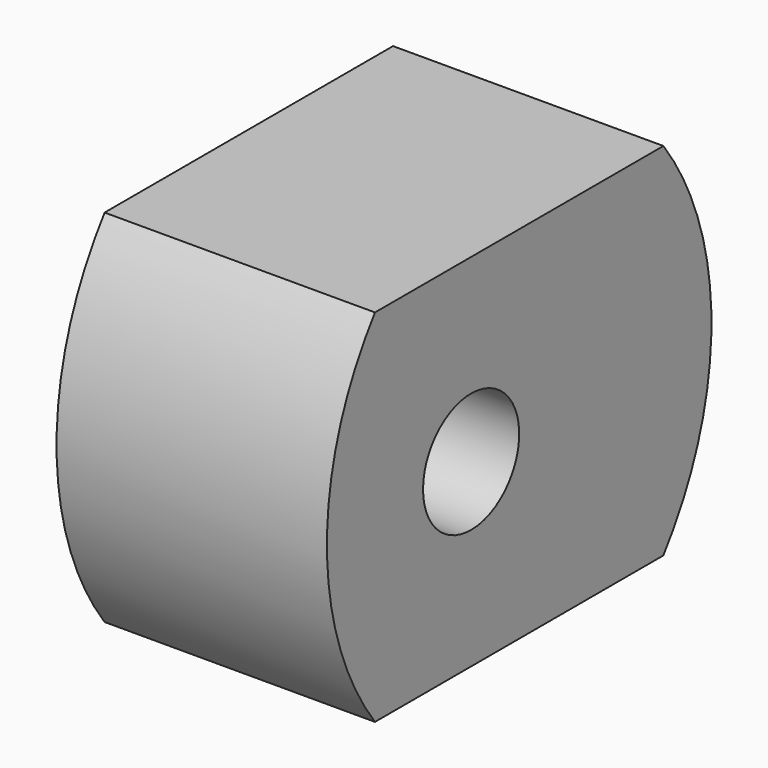
from build123d import *

# Parameters (mm, degrees)
F0_W     = 28.575
F0_H     = 38.1
F1_DEPTH = 38.1
F3_DEPTH = 28.575
F4_D     = 12.7
F4_DEPTH = 12.7
F4_TIP   = 3.8154649308


with BuildPart() as f1:
    # F0 (on Top) → F1 (new body)
    with BuildSketch(Plane.XY):
        Rectangle(F0_W, F0_H)
    extrude(amount=F1_DEPTH)

    # F2 (on face) → F3 (join, through all)
    with BuildSketch(Plane.YZ.offset(14.2875)):
        with BuildLine():
            ThreePointArc((-19.05, 38.1), (-25.4, 19.05), (-19.05, 0))
            Line((-19.05, 0), (-19.05, 38.1))
        make_face()
        with BuildLine():
            Line((19.05, 38.1), (19.05, 0))
            ThreePointArc((19.05, 0), (25.4, 19.05), (19.05, 38.1))
        make_face()
    extrude(amount=-F3_DEPTH)

    # F4
    with Locations(Plane.YZ.offset(14.2875)):
        with Locations((-6.35, 19.05)):
            Hole(F4_D / 2, depth=F4_DEPTH)
            with Locations((0, 0, -(F4_DEPTH + F4_TIP / 2))):  # 118° drill point
                Cone(0, F4_D / 2, F4_TIP, mode=Mode.SUBTRACT)


solid = f1.part
